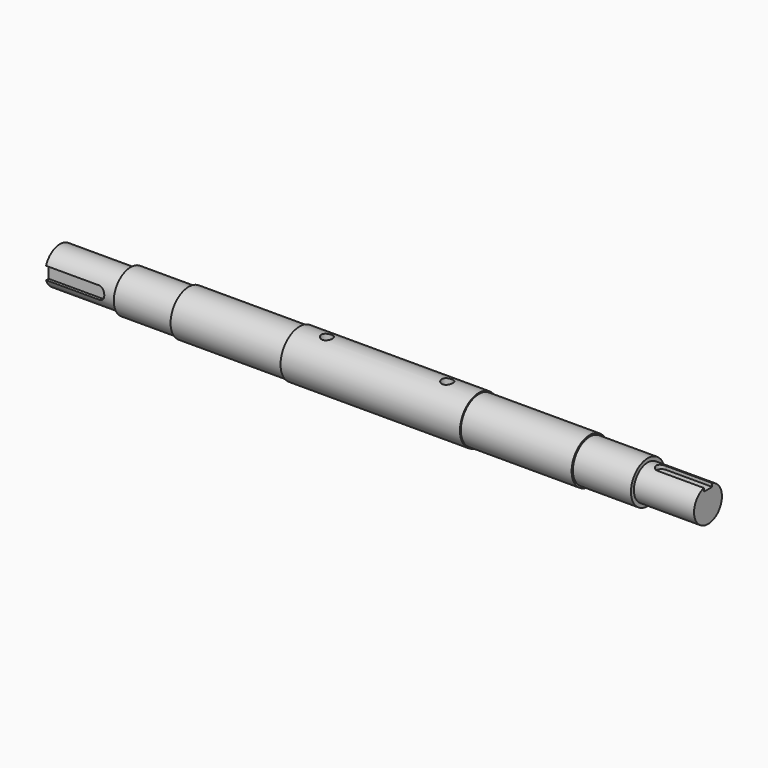
from build123d import *

# Parameters (mm, degrees)
F4_DEPTH  = 4
F7_DEPTH  = 4
F9_R      = 5.25
F10_DEPTH = 26


with BuildPart() as f1:
    # F0 (on Front) → F1 (revolve)
    with BuildSketch(Plane.XZ):
        Polygon((-307, 17.5), (-307, 0), (307, 0), (307, 16.5), (250, 16.5), (250, 20), (195, 20), (195, 21.5), (90, 21.5), (90, 22.5), (-80, 22.5), (-80, 21.5), (-185, 21.5), (-185, 20), (-240, 20), (-240, 17.5), align=None)
    revolve(axis=Axis((0, 0, 0), (-1, 0, 0)))

    # F3 (on offset) → F4 (cut)
    with BuildSketch(Plane.XZ.offset(17.5)):
        with BuildLine():
            Line((-257, 6), (-307, 6))
            Line((-307, 6), (-307, -6))
            Line((-307, -6), (-257, -6))
            ThreePointArc((-257, -6), (-251, 0), (-257, 6))
        make_face()
    extrude(amount=-F4_DEPTH, mode=Mode.SUBTRACT)

    # F6 (on offset) → F7 (cut)
    with BuildSketch(Plane.XY.offset(16.5)):
        with BuildLine():
            Line((307, -5), (307, 5))
            Line((307, 5), (263, 5))
            ThreePointArc((263, 5), (258, 0), (263, -5))
            Line((263, -5), (307, -5))
        make_face()
    extrude(amount=-F7_DEPTH, mode=Mode.SUBTRACT)

    # F9 (on offset) → F10 (cut)
    with BuildSketch(Plane.XY.offset(22.5)):
        with Locations((-54, 0)):
            Circle(F9_R)
        with Locations((60, 0)):
            Circle(F9_R)
    extrude(amount=-F10_DEPTH, mode=Mode.SUBTRACT)


solid = f1.part
